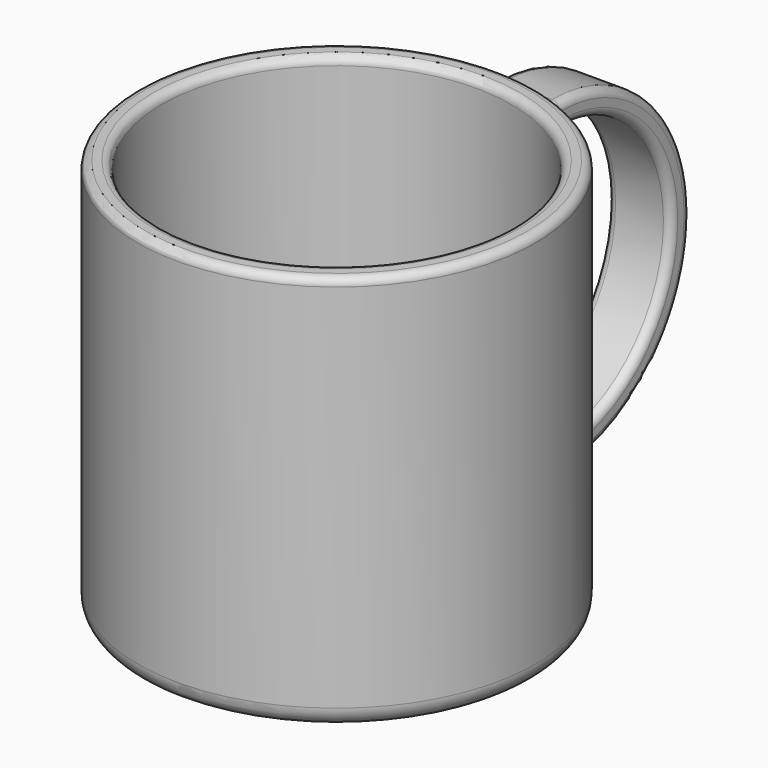
from build123d import *

# Parameters (mm, degrees)
PAD_DEPTH   = 8
FILLET_R    = 2
FILLET001_R = 2
FILLET002_R = 5


with BuildPart() as part:
    # Sketch → Revolution (revolve)
    with BuildSketch(Plane.XZ):
        Polygon((-50, 100), (-50, 0), (0, 0), (0, 4), (-44, 4), (-44, 100), align=None)
    revolve(axis=Axis((0, 0, 0), (0, 0, 1)))

    # Sketch001 → Pad (new body, symmetric)
    with BuildSketch(Plane.YZ):
        with BuildLine():
            ThreePointArc((60, 15), (95, 50), (60, 85))
            Line((47, 85), (60, 85))
            Line((47, 91), (47, 85))
            Line((60, 91), (47, 91))
            ThreePointArc((60, 9), (101, 50), (60, 91))
            Line((47, 9), (60, 9))
            Line((47, 15), (47, 9))
            Line((60, 15), (47, 15))
        make_face()
    extrude(amount=PAD_DEPTH, both=True)

    # Fillet
    fillet_edges = [part.edges().sort_by_distance(p)[0] for p in [
        (50, 0, 100),
        (44, 0, 100),
        (44, 0, 4),
        (-8, 101, 50),
        (8, 101, 50),
    ]]
    fillet(fillet_edges, radius=FILLET_R)

    # Fillet001
    fillet001_edges = [part.edges().sort_by_distance(p)[0] for p in [
        (0, 50, 85),
        (0, 50, 15),
        (0, 50, 91),
        (0, 50, 9),
        (8, 95, 50),
        (-8, 95, 50),
    ]]
    fillet(fillet001_edges, radius=FILLET001_R)

    # Fillet002
    fillet002_edges = [part.edges().sort_by_distance(p)[0] for p in [
        (50, 0, 0),
    ]]
    fillet(fillet002_edges, radius=FILLET002_R)


solid = part.part
